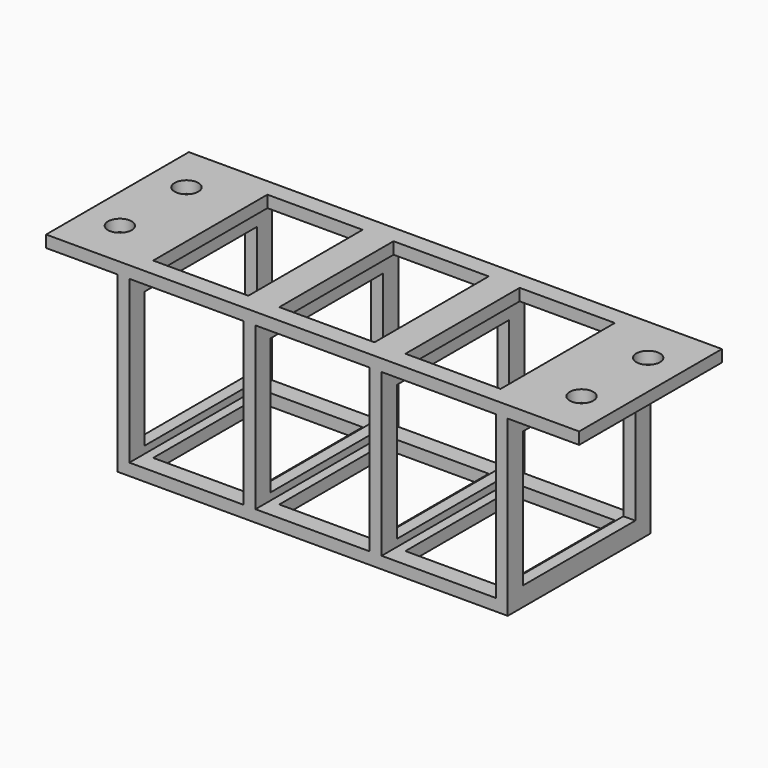
from build123d import *

# Parameters (mm, degrees)
F0_W          = 24
F0_H          = 34
F1_DEPTH      = 18.75
F1_DEPTH_BACK = 18.75
F2_R          = 2.5
F2_W          = 20
F2_H          = 30
F3_DEPTH      = 2.5
F4_DEPTH      = 60
F5_W          = 29.5
F5_H          = 28.5
F6_DEPTH      = 76.15809
F6_DEPTH_BACK = 25


with BuildPart() as f1:
    # F0 (on Front) → F1 (new body, two sides)
    with BuildSketch(Plane.XZ) as f1_sk:
        Polygon((14.5, 19.5), (-14.5, 19.5), (-14.5, -19.5), (14.5, -19.5), (43.5, -19.5), (67.5, -19.5), (67.5, 19.5), (43.5, 19.5), align=None)
        Rectangle(F0_W, F0_H, mode=Mode.SUBTRACT)
        with Locations((26.5, 0)):
            Rectangle(F0_W, F0_H, mode=Mode.SUBTRACT)
        with Locations((53, 0)):
            Rectangle(F0_W, F0_H, mode=Mode.SUBTRACT)
    extrude(amount=F1_DEPTH)
    extrude(f1_sk.sketch, amount=-F1_DEPTH_BACK)

    # F2 (on face) → F3 (join)
    with BuildSketch(Plane.XY.offset(19.5)):
        Polygon((-29.5, 18.75), (-29.5, -18.75), (82.5, -18.75), (82.5, 18.75), (-14.5, 18.75), align=None)
        with Locations((-22, -8.75)):
            Circle(F2_R, mode=Mode.SUBTRACT)
        with Locations((75, -8.75)):
            Circle(F2_R, mode=Mode.SUBTRACT)
        with Locations((-22, 8.75)):
            Circle(F2_R, mode=Mode.SUBTRACT)
        Rectangle(F2_W, F2_H, mode=Mode.SUBTRACT)
        with Locations((26.5, 0)):
            Rectangle(F2_W, F2_H, mode=Mode.SUBTRACT)
        with Locations((53, 0)):
            Rectangle(F2_W, F2_H, mode=Mode.SUBTRACT)
        with Locations((75, 8.75)):
            Circle(F2_R, mode=Mode.SUBTRACT)
    extrude(amount=-F3_DEPTH)

    # F2 (on face) → F4 (cut)
    with BuildSketch(Plane.XY.offset(19.5)):
        Rectangle(F2_W, F2_H)
        with Locations((53, 0)):
            Rectangle(F2_W, F2_H)
        with Locations((26.5, 0)):
            Rectangle(F2_W, F2_H)
    extrude(amount=-F4_DEPTH, mode=Mode.SUBTRACT)

    # F5 (on Right) → F6 (cut, two sides)
    with BuildSketch(Plane.YZ) as f6_sk:
        with Locations((0, -1.25)):
            Rectangle(F5_W, F5_H)
    extrude(amount=F6_DEPTH, mode=Mode.SUBTRACT)
    extrude(f6_sk.sketch, amount=-F6_DEPTH_BACK, mode=Mode.SUBTRACT)


solid = f1.part
